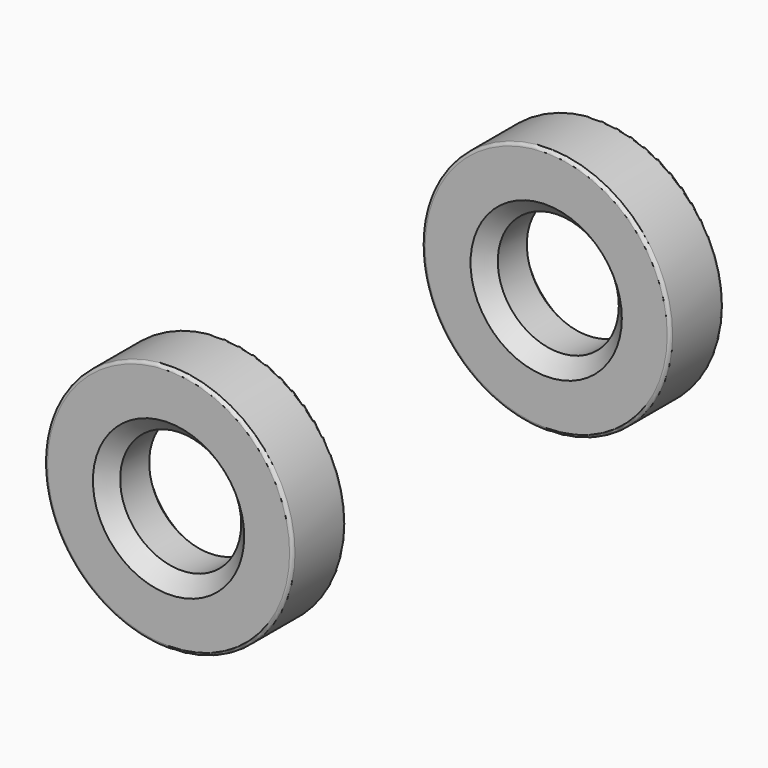
from build123d import *

# Parameters (mm, degrees)
CYLINDER290_R          = 20
CYLINDER290_DEPTH      = 22
CYLINDER290_ROLL_ANGLE = 90
CYLINDER289_R          = 41
CYLINDER289_DEPTH      = 22
CYLINDER289_ROLL_ANGLE = 90
FILLET267_R            = 1
CYLINDER291_R          = 20
CYLINDER291_DEPTH      = 22
CYLINDER291_ROLL_ANGLE = 90
CYLINDER288_R          = 41
CYLINDER288_DEPTH      = 22
CYLINDER288_ROLL_ANGLE = 90
FILLET266_R            = 1
CHAMFER056_SIZE        = 5


with BuildPart() as cylinder290:
    # Cylinder290 → Cylinder290 (new body)
    with BuildSketch(Plane.XY):
        Circle(CYLINDER290_R)
    extrude(amount=CYLINDER290_DEPTH)


with BuildPart() as cylinder290_1:
    # Cylinder290 roll: moved
    add(cylinder290.part.rotate(Axis((0, 0, 0), (1, 0, 0)), CYLINDER290_ROLL_ANGLE))


with BuildPart() as cylinder290_2:
    # Cylinder290 placement: moved
    add(cylinder290_1.part)


with BuildPart() as fillet267:
    # Cylinder289 → Cylinder289 (new body)
    with BuildSketch(Plane.XY):
        Circle(CYLINDER289_R)
    extrude(amount=CYLINDER289_DEPTH)


with BuildPart() as fillet267_1:
    # Cylinder289 roll: moved
    add(fillet267.part.rotate(Axis((0, 0, 0), (1, 0, 0)), CYLINDER289_ROLL_ANGLE))


with BuildPart() as fillet267_2:
    # Cylinder289 placement: moved
    add(fillet267_1.part)

    # Cut427: cut Cylinder290
    add(cylinder290_2.part, mode=Mode.SUBTRACT)

    # Fillet267
    fillet267_edges = [fillet267_2.edges().sort_by_distance(p)[0] for p in [
        (-41, -22, 0),
        (-41, 0, 0),
    ]]
    fillet(fillet267_edges, radius=FILLET267_R)


with BuildPart() as fillet267_3:
    # Fillet267 placement: moved
    add(fillet267_2.part.moved(Location((0, 174, 0))))


with BuildPart() as cylinder291:
    # Cylinder291 → Cylinder291 (new body)
    with BuildSketch(Plane.XY):
        Circle(CYLINDER291_R)
    extrude(amount=CYLINDER291_DEPTH)


with BuildPart() as cylinder291_1:
    # Cylinder291 roll: moved
    add(cylinder291.part.rotate(Axis((0, 0, 0), (1, 0, 0)), CYLINDER291_ROLL_ANGLE))


with BuildPart() as cylinder291_2:
    # Cylinder291 placement: moved
    add(cylinder291_1.part)


with BuildPart() as obj1:
    # Cylinder288 → Cylinder288 (new body)
    with BuildSketch(Plane.XY):
        Circle(CYLINDER288_R)
    extrude(amount=CYLINDER288_DEPTH)


with BuildPart() as obj1_1:
    # Cylinder288 roll: moved
    add(obj1.part.rotate(Axis((0, 0, 0), (1, 0, 0)), CYLINDER288_ROLL_ANGLE))


with BuildPart() as obj1_2:
    # Cylinder288 placement: moved
    add(obj1_1.part)

    # Cut428: cut Cylinder291
    add(cylinder291_2.part, mode=Mode.SUBTRACT)

    # Fillet266
    fillet266_edges = [obj1_2.edges().sort_by_distance(p)[0] for p in [
        (-41, -22, 0),
        (-41, 0, 0),
    ]]
    fillet(fillet266_edges, radius=FILLET266_R)


with BuildPart() as obj1_3:
    # Fillet266 placement: moved
    add(obj1_2.part.moved(Location((0, 18, 0))))

    # Fusion244: union Fillet267
    add(fillet267_3.part)


with BuildPart() as obj1_4:
    # Fusion244 placement: moved
    add(obj1_3.part.moved(Location((348, 0, -51))))

    # Chamfer056
    chamfer056_edges = [obj1_4.edges().sort_by_distance(p)[0] for p in [
        (328, 18, -51),
        (328, -4, -51),
        (328, 174, -51),
        (328, 152, -51),
    ]]
    chamfer(chamfer056_edges, length=CHAMFER056_SIZE)


solid = obj1_4.part
